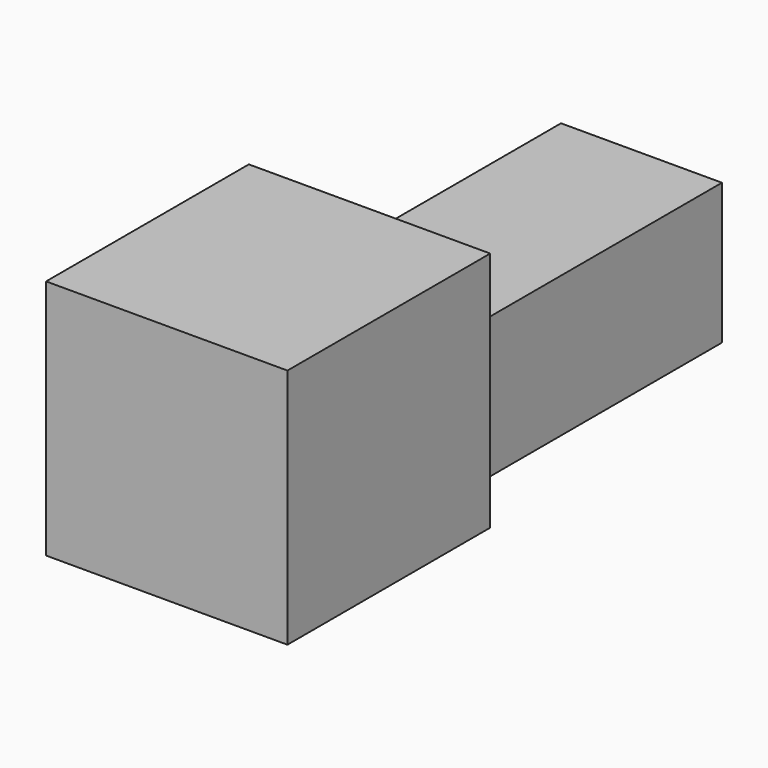
from build123d import *

# Parameters (mm, degrees)
F0_W          = 600
F0_H          = 600
F1_DEPTH      = 630
F2_W          = 845
F2_H          = 350
F3_DEPTH      = 200
F3_DEPTH_BACK = 200


with BuildPart() as f1:
    # F0 (on Front) → F1 (new body)
    with BuildSketch(Plane.XZ):
        with Locations((0, 300)):
            Rectangle(F0_W, F0_H)
    extrude(amount=F1_DEPTH)

    # F2 (on Right) → F3 (join, two sides)
    with BuildSketch(Plane.YZ) as f3_sk:
        with Locations((422.5, 203.941033)):
            Rectangle(F2_W, F2_H)
    extrude(amount=F3_DEPTH)
    extrude(f3_sk.sketch, amount=-F3_DEPTH_BACK)


solid = f1.part
